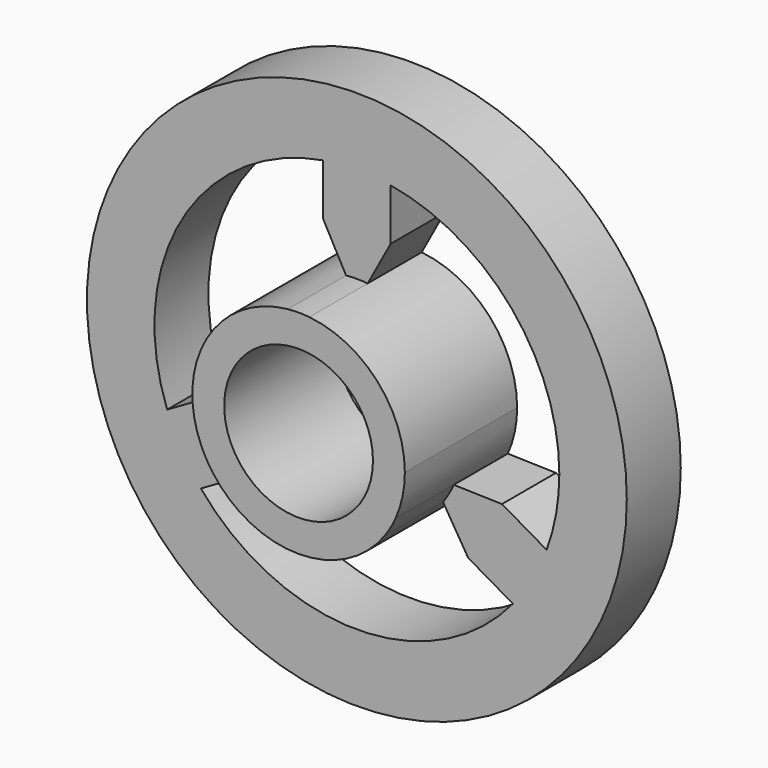
from build123d import *

# Parameters (mm, degrees)
F0_R     = 1.75
F1_DEPTH = 3.302
F0_R_2   = 6.35
F2_DEPTH = 1.5875


with BuildPart() as f1:
    # F0 (on Front) → F1 (new body)
    with BuildSketch(Plane.XZ):
        with BuildLine():
            ThreePointArc((2.28086, -1.023561), (2.444601, -0.523378), (2.5, 0))
            ThreePointArc((2.5, 0), (1.855398, 1.67556), (0.254, 2.487063))
            ThreePointArc((0.254, 2.487063), (0, 2.5), (-0.254, 2.487063))
            ThreePointArc((-0.254, 2.487063), (-2.165064, 1.25), (-2.28086, -1.023561))
            ThreePointArc((-2.28086, -1.023561), (-2.165064, -1.25), (-2.02686, -1.463502))
            ThreePointArc((-2.02686, -1.463502), (0, -2.5), (2.02686, -1.463502))
            ThreePointArc((2.02686, -1.463502), (2.165064, -1.25), (2.28086, -1.023561))
        make_face()
        Circle(F0_R, mode=Mode.SUBTRACT)
    extrude(amount=F1_DEPTH)

    # F0 (on Front) → F2 (join)
    with BuildSketch(Plane.XZ):
        Circle(F0_R_2)
        with BuildLine():
            ThreePointArc((-0.79375, 4.695888), (0, 4.7625), (0.79375, 4.695888))
            ThreePointArc((0.79375, 4.695888), (3.637419, 3.074181), (4.7625, 0))
            ThreePointArc((4.7625, 0), (4.687188, -0.843609), (4.463634, -1.660536))
            ThreePointArc((4.463634, -1.660536), (4.124446, -2.38125), (3.669884, -3.035352))
            ThreePointArc((3.669884, -3.035352), (0, -4.7625), (-3.669884, -3.035352))
            ThreePointArc((-3.669884, -3.035352), (-4.124446, -2.38125), (-4.463634, -1.660536))
            ThreePointArc((-4.463634, -1.660536), (-4.124446, 2.38125), (-0.79375, 4.695888))
        make_face(mode=Mode.SUBTRACT)
        with BuildLine():
            ThreePointArc((-0.254, 2.487063), (0, 2.5), (0.254, 2.487063))
            Line((0.254, 2.487063), (0.79375, 3.483215))
            Line((0.79375, 3.483215), (0.79375, 4.695888))
            ThreePointArc((0.79375, 4.695888), (0, 4.7625), (-0.79375, 4.695888))
            Line((-0.79375, 4.695888), (-0.79375, 3.483215))
            Line((-0.79375, 3.483215), (-0.254, 2.487063))
        make_face()
        with BuildLine():
            ThreePointArc((-2.02686, -1.463502), (-2.165064, -1.25), (-2.28086, -1.023561))
            Line((-2.28086, -1.023561), (-3.413428, -1.0542))
            Line((-3.413428, -1.0542), (-4.463634, -1.660536))
            ThreePointArc((-4.463634, -1.660536), (-4.124446, -2.38125), (-3.669884, -3.035352))
            Line((-3.669884, -3.035352), (-2.619678, -2.429015))
            Line((-2.619678, -2.429015), (-2.02686, -1.463502))
        make_face()
        with BuildLine():
            Line((3.413428, -1.0542), (2.28086, -1.023561))
            ThreePointArc((2.28086, -1.023561), (2.165064, -1.25), (2.02686, -1.463502))
            Line((2.02686, -1.463502), (2.619678, -2.429015))
            Line((2.619678, -2.429015), (3.669884, -3.035352))
            ThreePointArc((3.669884, -3.035352), (4.124446, -2.38125), (4.463634, -1.660536))
            Line((4.463634, -1.660536), (3.413428, -1.0542))
        make_face()
    extrude(amount=F2_DEPTH)


solid = f1.part
